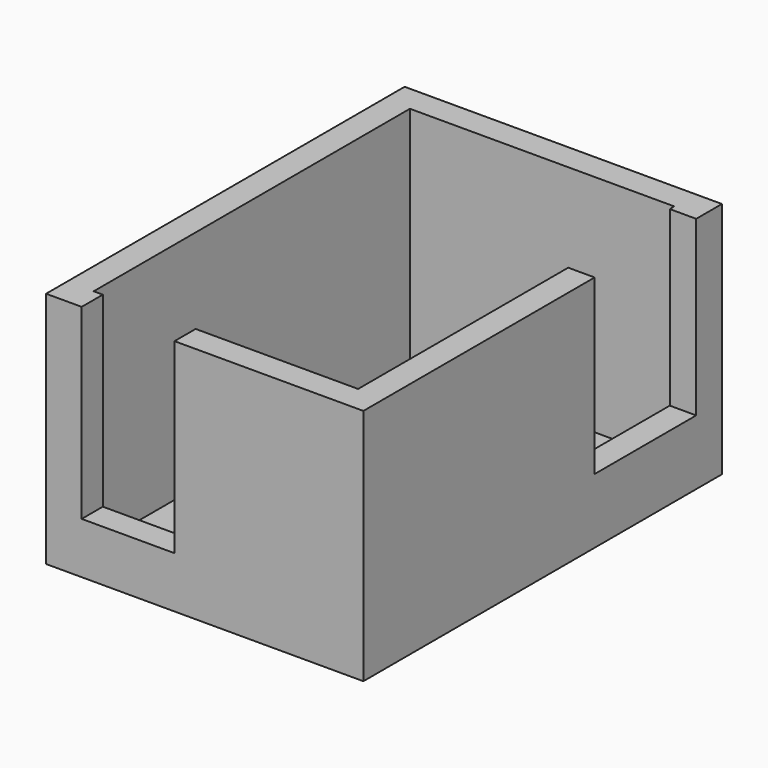
from build123d import *

# Parameters (mm, degrees)
F0_W     = 20.6896286374
F0_H     = 8.5261184722
F1_DEPTH = 45.72
F3_DEPTH = 43.18
F5_DEPTH = 25.4
F6_W     = 24.390142411
F6_H     = 33.248395839
F7_DEPTH = 25.4
F8_W     = 17.8320128471
F8_H     = 35.8616813955
F9_DEPTH = 25.4


with BuildPart() as f1:
    # F0 (on Top) → F1 (new body)
    with BuildSketch(Plane.XY):
        Polygon((36.2886708146, 54.0553010044), (-24.6713291854, 54.0553010044), (-24.6713291854, -32.0506989956), (15.5990421772, -32.0506989956), (15.5990421772, -23.5245805234), (36.2886708146, -23.5245805234), align=None)
        with Locations((25.9438564959, -27.7876397595)):
            Rectangle(F0_W, F0_H)
    extrude(amount=F1_DEPTH)

    # F2 (on face) → F3 (cut)
    with BuildSketch(Plane.XY.offset(45.72)):
        Polygon((5.8086708146, 48.9753010044), (-19.5913291854, 48.9753010044), (-19.5913291854, 11.0023010044), (-19.5913291854, -26.9706989956), (5.8086708146, -26.9706989956), (31.2086708146, -26.9706989956), (31.2086708146, 11.0023010044), (31.2086708146, 48.9753010044), align=None)
    extrude(amount=-F3_DEPTH, mode=Mode.SUBTRACT)

    # F4 (on face) → F5 (cut)
    with BuildSketch(Plane.XY.offset(2.54)):
        with BuildLine():
            Line((-8.7963291854, 40.5933010044), (-10.2568291854, 40.5933010044))
            ThreePointArc((-10.2568291854, 40.5933010044), (-9.8290586393, 39.5605715505), (-8.7963291854, 39.1328010044))
            Line((-8.7963291854, 39.1328010044), (-8.7963291854, 40.5933010044))
        make_face()
        with BuildLine():
            Line((-7.3358291854, 40.5933010044), (-8.7963291854, 40.5933010044))
            Line((-8.7963291854, 40.5933010044), (-8.7963291854, 39.1328010044))
            ThreePointArc((-8.7963291854, 39.1328010044), (-7.7635997314, 39.5605715505), (-7.3358291854, 40.5933010044))
        make_face()
        with BuildLine():
            ThreePointArc((-7.3358291854, 40.5933010044), (-7.7635997314, 41.6260304583), (-8.7963291854, 42.0538010044))
            Line((-8.7963291854, 42.0538010044), (-8.7963291854, 40.5933010044))
            Line((-8.7963291854, 40.5933010044), (-7.3358291854, 40.5933010044))
        make_face()
        with BuildLine():
            ThreePointArc((-8.7963291854, 42.0538010044), (-9.8290586393, 41.6260304583), (-10.2568291854, 40.5933010044))
            Line((-10.2568291854, 40.5933010044), (-8.7963291854, 40.5933010044))
            Line((-8.7963291854, 40.5933010044), (-8.7963291854, 42.0538010044))
        make_face()
        with BuildLine():
            Line((-8.7963291854, -17.1281989956), (-8.7963291854, -18.5886989956))
            Line((-8.7963291854, -18.5886989956), (-7.3358291854, -18.5886989956))
            ThreePointArc((-7.3358291854, -18.5886989956), (-7.7635997314, -17.5559695417), (-8.7963291854, -17.1281989956))
        make_face()
        with BuildLine():
            Line((-8.7963291854, -18.5886989956), (-10.2568291854, -18.5886989956))
            ThreePointArc((-10.2568291854, -18.5886989956), (-9.8290586393, -19.6214284495), (-8.7963291854, -20.0491989956))
            Line((-8.7963291854, -20.0491989956), (-8.7963291854, -18.5886989956))
        make_face()
        with BuildLine():
            Line((-7.3358291854, -18.5886989956), (-8.7963291854, -18.5886989956))
            Line((-8.7963291854, -18.5886989956), (-8.7963291854, -20.0491989956))
            ThreePointArc((-8.7963291854, -20.0491989956), (-7.7635997314, -19.6214284495), (-7.3358291854, -18.5886989956))
        make_face()
        with BuildLine():
            ThreePointArc((-8.7963291854, -17.1281989956), (-9.8290586393, -17.5559695417), (-10.2568291854, -18.5886989956))
            Line((-10.2568291854, -18.5886989956), (-8.7963291854, -18.5886989956))
            Line((-8.7963291854, -18.5886989956), (-8.7963291854, -17.1281989956))
        make_face()
        with BuildLine():
            ThreePointArc((21.8741708146, 40.5933010044), (21.4464002686, 41.6260304583), (20.4136708146, 42.0538010044))
            Line((20.4136708146, 42.0538010044), (20.4136708146, 40.5933010044))
            Line((20.4136708146, 40.5933010044), (21.8741708146, 40.5933010044))
        make_face()
        with BuildLine():
            Line((21.8741708146, 40.5933010044), (20.4136708146, 40.5933010044))
            Line((20.4136708146, 40.5933010044), (20.4136708146, 39.1328010044))
            ThreePointArc((20.4136708146, 39.1328010044), (21.4464002686, 39.5605715505), (21.8741708146, 40.5933010044))
        make_face()
        with BuildLine():
            Line((20.4136708146, 40.5933010044), (18.9531708146, 40.5933010044))
            ThreePointArc((18.9531708146, 40.5933010044), (19.3809413607, 39.5605715505), (20.4136708146, 39.1328010044))
            Line((20.4136708146, 39.1328010044), (20.4136708146, 40.5933010044))
        make_face()
        with BuildLine():
            Line((20.4136708146, 40.5933010044), (20.4136708146, 42.0538010044))
            ThreePointArc((20.4136708146, 42.0538010044), (19.3809413607, 41.6260304583), (18.9531708146, 40.5933010044))
            Line((18.9531708146, 40.5933010044), (20.4136708146, 40.5933010044))
        make_face()
        with BuildLine():
            ThreePointArc((21.8741708146, -18.5886989956), (21.4464002686, -17.5559695417), (20.4136708146, -17.1281989956))
            Line((20.4136708146, -17.1281989956), (20.4136708146, -18.5886989956))
            Line((20.4136708146, -18.5886989956), (21.8741708146, -18.5886989956))
        make_face()
        with BuildLine():
            ThreePointArc((20.4136708146, -17.1281989956), (19.3809413607, -17.5559695417), (18.9531708146, -18.5886989956))
            Line((18.9531708146, -18.5886989956), (20.4136708146, -18.5886989956))
            Line((20.4136708146, -18.5886989956), (20.4136708146, -17.1281989956))
        make_face()
        with BuildLine():
            ThreePointArc((18.9531708146, -18.5886989956), (19.3809413607, -19.6214284495), (20.4136708146, -20.0491989956))
            Line((20.4136708146, -20.0491989956), (20.4136708146, -18.5886989956))
            Line((20.4136708146, -18.5886989956), (18.9531708146, -18.5886989956))
        make_face()
        with BuildLine():
            Line((20.4136708146, -18.5886989956), (20.4136708146, -20.0491989956))
            ThreePointArc((20.4136708146, -20.0491989956), (21.4464002686, -19.6214284495), (21.8741708146, -18.5886989956))
            Line((21.8741708146, -18.5886989956), (20.4136708146, -18.5886989956))
        make_face()
    extrude(amount=-F5_DEPTH, mode=Mode.SUBTRACT)

    # F6 (on face) → F7 (cut)
    with BuildSketch(Plane.YZ.offset(36.2886708146)):
        with Locations((35.6818791479, 29.0958020805)):
            Rectangle(F6_W, F6_H)
    extrude(amount=-F7_DEPTH, mode=Mode.SUBTRACT)

    # F8 (on face) → F9 (cut)
    with BuildSketch(Plane.XZ.offset(32.0506989956)):
        with Locations((-8.9160064235, 27.7891593023)):
            Rectangle(F8_W, F8_H)
    extrude(amount=-F9_DEPTH, mode=Mode.SUBTRACT)


solid = f1.part
